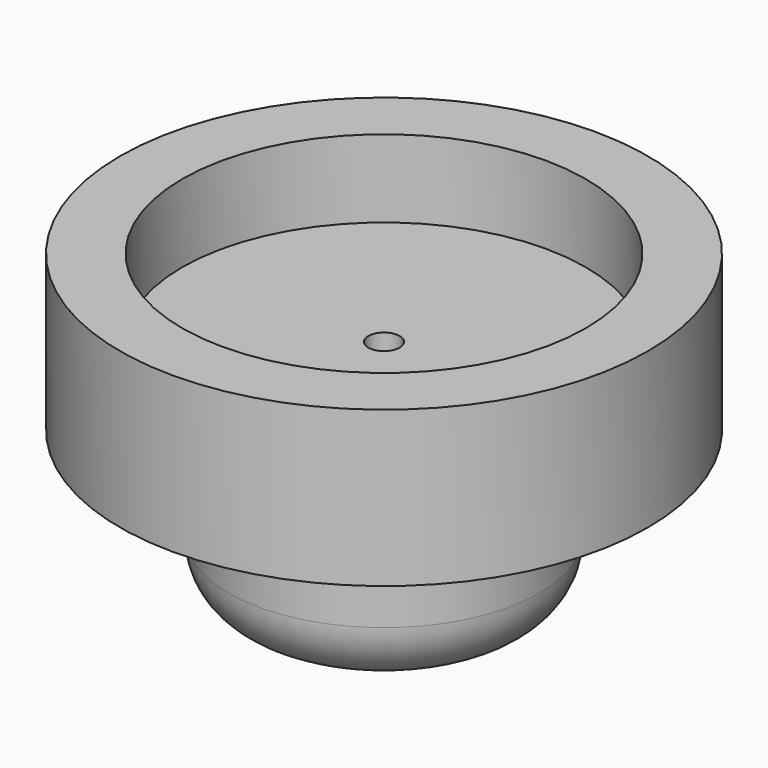
from build123d import *

# Parameters (mm, degrees)
CYLINDER_R      = 17
CYLINDER_DEPTH  = 10
SKETCH_R        = 13
POCKET_DEPTH    = 5
SKETCH001_R     = 10
PAD_DEPTH       = 10
FILLET_R        = 4
SKETCH002_R     = 2.03183
POCKET001_DEPTH = 10
SKETCH003_R     = 1.012126
POCKET002_DEPTH = 15.001


with BuildPart() as part:
    # Cylinder → Cylinder (new body)
    with BuildSketch(Plane.XY):
        Circle(CYLINDER_R)
    extrude(amount=CYLINDER_DEPTH)

    # Sketch → Pocket (cut)
    with BuildSketch(Plane.XY.offset(10)):
        Circle(SKETCH_R)
    extrude(amount=-POCKET_DEPTH, mode=Mode.SUBTRACT)

    # Sketch001 → Pad (new body)
    with BuildSketch(Plane(origin=(0, 0, 0), x_dir=(1, 0, 0), z_dir=(0, 0, -1))):
        Circle(SKETCH001_R)
    extrude(amount=PAD_DEPTH)

    # Fillet
    fillet_edges = [part.edges().sort_by_distance(p)[0] for p in [
        (-10, 0, -10),
    ]]
    fillet(fillet_edges, radius=FILLET_R)

    # Sketch002 → Pocket001 (cut)
    with BuildSketch(Plane(origin=(0, 0, -10), x_dir=(1, 0, 0), z_dir=(0, 0, -1))):
        Circle(SKETCH002_R)
    extrude(amount=-POCKET001_DEPTH, mode=Mode.SUBTRACT)

    # Sketch003 → Pocket002 (cut, through all)
    with BuildSketch(Plane.XY.offset(5)):
        Circle(SKETCH003_R)
    extrude(amount=-POCKET002_DEPTH, mode=Mode.SUBTRACT)


solid = part.part
